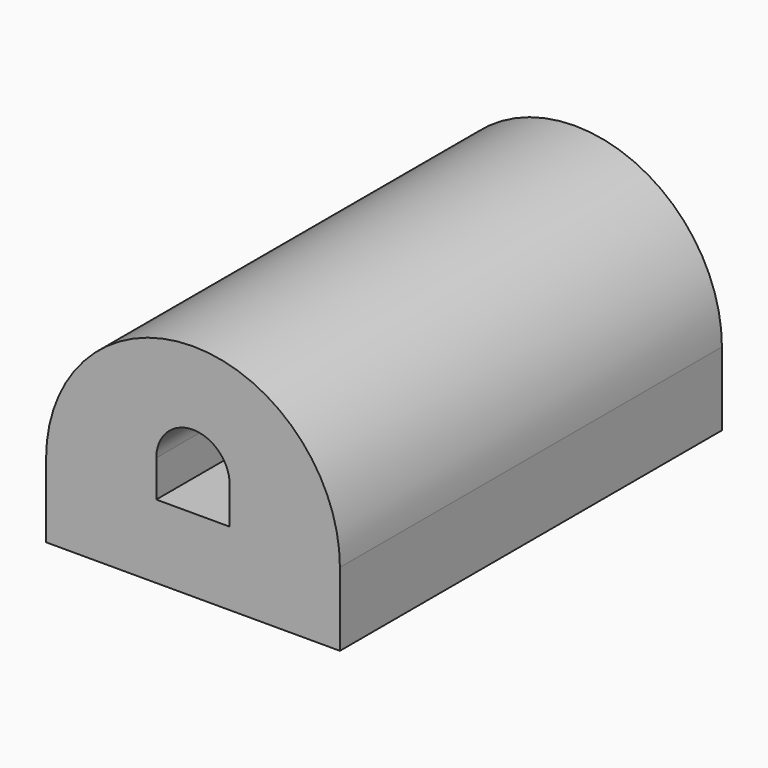
from build123d import *

# Parameters (mm, degrees)
F1_DEPTH = 304.8
F3_DEPTH = 25.4
F4_R     = 6.35
F5_DEPTH = 25.401
F6_R     = 12.7
F7_DEPTH = 101.601


with BuildPart() as f1:
    # F0 (on Front) → F1 (new body)
    with BuildSketch(Plane.XZ):
        with BuildLine():
            ThreePointArc((-25.4, 25.4), (0, 50.8), (25.4, 25.4))
            Line((25.4, 25.4), (25.4, 0))
            Line((25.4, 0), (101.6, 0))
            ThreePointArc((101.6, 0), (0, 101.6), (-101.6, 0))
            Line((-101.6, 0), (-25.4, 0))
            Line((-25.4, 0), (-25.4, 25.4))
        make_face()
        Polygon((101.6, 0), (25.4, 0), (0, 0), (-25.4, 0), (-101.6, 0), (-101.6, -50.8), (101.6, -50.8), align=None)
    extrude(amount=F1_DEPTH)

    # F2 (on face) → F3 (join)
    with BuildSketch(Plane(origin=(0, 0, 0), x_dir=(-1, 0, 0), z_dir=(0, 1, 0))):
        with BuildLine():
            Line((101.6, -50.8), (101.6, 0))
            ThreePointArc((101.6, 0), (0, 101.6), (-101.6, 0))
            Line((-101.6, 0), (-101.6, -50.8))
            Line((-101.6, -50.8), (101.6, -50.8))
        make_face()
    extrude(amount=F3_DEPTH)

    # F4 (on Front) → F5 (cut, through all)
    with BuildSketch(Plane.XZ):
        with Locations((0, 25.4)):
            Circle(F4_R)
    extrude(amount=-F5_DEPTH, mode=Mode.SUBTRACT)

    # F6 (on Right) → F7 (cut, through all)
    with BuildSketch(Plane.YZ):
        with Locations((-25.4, 25.4)):
            Circle(F6_R)
    extrude(amount=-F7_DEPTH, mode=Mode.SUBTRACT)


solid = f1.part
